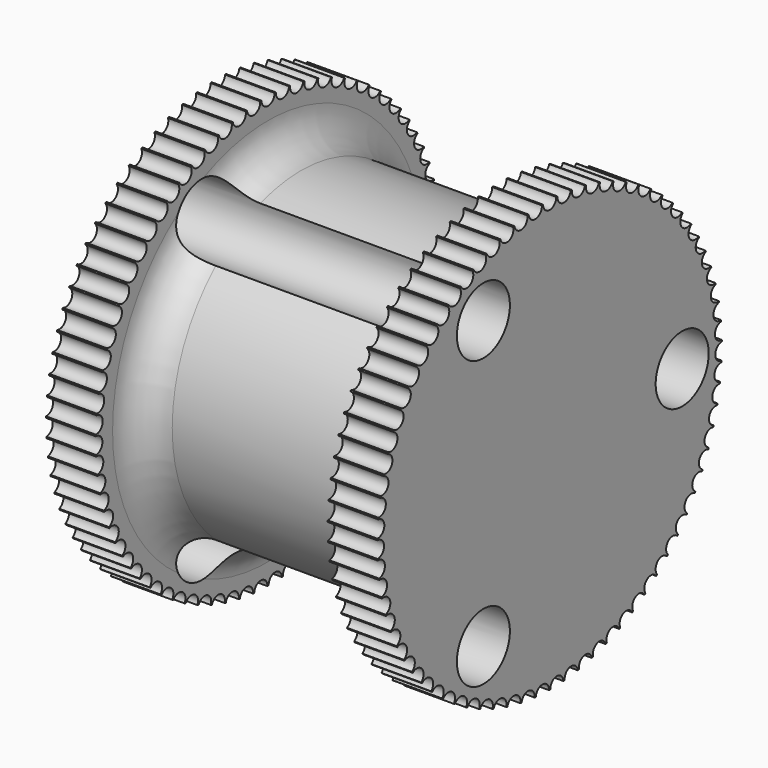
from build123d import *

# Parameters (mm, degrees)
F2_R     = 6.35
F3_DEPTH = 101.6
F5_R     = 1.5875
F6_DEPTH = 101.6


with BuildPart() as f1:
    # F0 (on Top) → F1 (revolve)
    with BuildSketch(Plane.XY):
        with BuildLine():
            Line((0, 41.275), (0, 0))
            Line((0, 0), (63.5, 0))
            Line((63.5, 0), (63.5, 41.275))
            Line((63.5, 41.275), (53.975, 41.275))
            Line((53.975, 41.275), (53.975, 34.067696))
            ThreePointArc((53.975, 34.067696), (53.045064, 31.822632), (50.8, 30.892696))
            Line((50.8, 30.892696), (15.875, 30.892696))
            ThreePointArc((15.875, 30.892696), (11.384872, 32.752568), (9.525, 37.242696))
            Line((9.525, 37.242696), (9.525, 41.275))
            Line((9.525, 41.275), (0, 41.275))
        make_face()
    revolve(axis=Axis((31.75, 0, 0), (-1, 0, 0)))

    # F2 (on face) → F3 (cut)
    with BuildSketch(Plane.YZ.offset(63.5)):
        with Locations((-15.875002, 27.496306)):
            Circle(F2_R)
        with Locations((-15.874997, -27.496308)):
            Circle(F2_R)
        with Locations((31.75, 0)):
            Circle(F2_R)
    extrude(amount=-F3_DEPTH, mode=Mode.SUBTRACT)

    # F5 (on face) → F6 (cut)
    with BuildSketch(Plane(origin=(0, 0, 0), x_dir=(0, -1, 0), z_dir=(-1, 0, 0))):
        with Locations((0, 41.275)):
            Circle(F5_R)
        with Locations((-3.453803, 41.130243)):
            Circle(F5_R)
        with Locations((-6.88338, 40.696986)):
            Circle(F5_R)
        with Locations((-10.264675, 39.97827)):
            Circle(F5_R)
        with Locations((-13.573971, 38.979135)):
            Circle(F5_R)
        with Locations((-16.788055, 37.706589)):
            Circle(F5_R)
        with Locations((-19.884383, 36.169558)):
            Circle(F5_R)
        with Locations((-22.841236, 34.378824)):
            Circle(F5_R)
        with Locations((-25.637875, 32.346947)):
            Circle(F5_R)
        with Locations((-28.254682, 30.08818)):
            Circle(F5_R)
        with Locations((-30.673303, 27.618366)):
            Circle(F5_R)
        with Locations((-32.876772, 24.954828)):
            Circle(F5_R)
        with Locations((-34.849635, 22.116251)):
            Circle(F5_R)
        with Locations((-36.578053, 19.122544)):
            Circle(F5_R)
        with Locations((-38.049902, 15.994706)):
            Circle(F5_R)
        with Locations((-39.254858, 12.754676)):
            Circle(F5_R)
        with Locations((-40.184469, 9.425182)):
            Circle(F5_R)
        with Locations((-40.832216, 6.029577)):
            Circle(F5_R)
        with Locations((-41.193553, 2.591679)):
            Circle(F5_R)
        with Locations((-41.265948, -0.864398)):
            Circle(F5_R)
        with Locations((-41.048891, -4.314412)):
            Circle(F5_R)
        with Locations((-40.543906, -7.734164)):
            Circle(F5_R)
        with Locations((-39.754535, -11.099666)):
            Circle(F5_R)
        with Locations((-38.686314, -14.387311)):
            Circle(F5_R)
        with Locations((-37.346737, -17.57404)):
            Circle(F5_R)
        with Locations((-35.745199, -20.6375)):
            Circle(F5_R)
        with Locations((-33.892934, -23.556203)):
            Circle(F5_R)
        with Locations((-31.802934, -26.309675)):
            Circle(F5_R)
        with Locations((-29.48986, -28.878604)):
            Circle(F5_R)
        with Locations((-26.969935, -31.244971)):
            Circle(F5_R)
        with Locations((-24.260836, -33.392176)):
            Circle(F5_R)
        with Locations((-21.381565, -35.30516)):
            Circle(F5_R)
        with Locations((-18.352317, -36.970503)):
            Circle(F5_R)
        with Locations((-15.194341, -38.376524)):
            Circle(F5_R)
        with Locations((-11.929787, -39.513362)):
            Circle(F5_R)
        with Locations((-8.581555, -40.373042)):
            Circle(F5_R)
        with Locations((-5.173129, -40.949534)):
            Circle(F5_R)
        with Locations((-1.728418, -41.238795)):
            Circle(F5_R)
        with Locations((1.728418, -41.238795)):
            Circle(F5_R)
        with Locations((5.173129, -40.949534)):
            Circle(F5_R)
        with Locations((8.581555, -40.373042)):
            Circle(F5_R)
        with Locations((11.929787, -39.513362)):
            Circle(F5_R)
        with Locations((15.194341, -38.376524)):
            Circle(F5_R)
        with Locations((18.352317, -36.970503)):
            Circle(F5_R)
        with Locations((21.381565, -35.30516)):
            Circle(F5_R)
        with Locations((24.260836, -33.392176)):
            Circle(F5_R)
        with Locations((26.969935, -31.244971)):
            Circle(F5_R)
        with Locations((29.48986, -28.878604)):
            Circle(F5_R)
        with Locations((31.802934, -26.309675)):
            Circle(F5_R)
        with Locations((33.892934, -23.556203)):
            Circle(F5_R)
        with Locations((35.745199, -20.6375)):
            Circle(F5_R)
        with Locations((37.346737, -17.57404)):
            Circle(F5_R)
        with Locations((38.686314, -14.387311)):
            Circle(F5_R)
        with Locations((39.754535, -11.099666)):
            Circle(F5_R)
        with Locations((40.543906, -7.734164)):
            Circle(F5_R)
        with Locations((41.048891, -4.314412)):
            Circle(F5_R)
        with Locations((41.265948, -0.864398)):
            Circle(F5_R)
        with Locations((41.193553, 2.591679)):
            Circle(F5_R)
        with Locations((40.832216, 6.029577)):
            Circle(F5_R)
        with Locations((40.184469, 9.425182)):
            Circle(F5_R)
        with Locations((39.254858, 12.754676)):
            Circle(F5_R)
        with Locations((38.049902, 15.994706)):
            Circle(F5_R)
        with Locations((36.578053, 19.122544)):
            Circle(F5_R)
        with Locations((34.849635, 22.116251)):
            Circle(F5_R)
        with Locations((32.876772, 24.954828)):
            Circle(F5_R)
        with Locations((30.673303, 27.618366)):
            Circle(F5_R)
        with Locations((28.254682, 30.08818)):
            Circle(F5_R)
        with Locations((25.637875, 32.346947)):
            Circle(F5_R)
        with Locations((22.841236, 34.378824)):
            Circle(F5_R)
        with Locations((19.884383, 36.169558)):
            Circle(F5_R)
        with Locations((16.788055, 37.706589)):
            Circle(F5_R)
        with Locations((13.573971, 38.979135)):
            Circle(F5_R)
        with Locations((10.264675, 39.97827)):
            Circle(F5_R)
        with Locations((6.88338, 40.696986)):
            Circle(F5_R)
        with Locations((3.453803, 41.130243)):
            Circle(F5_R)
    extrude(amount=-F6_DEPTH, mode=Mode.SUBTRACT)


solid = f1.part
